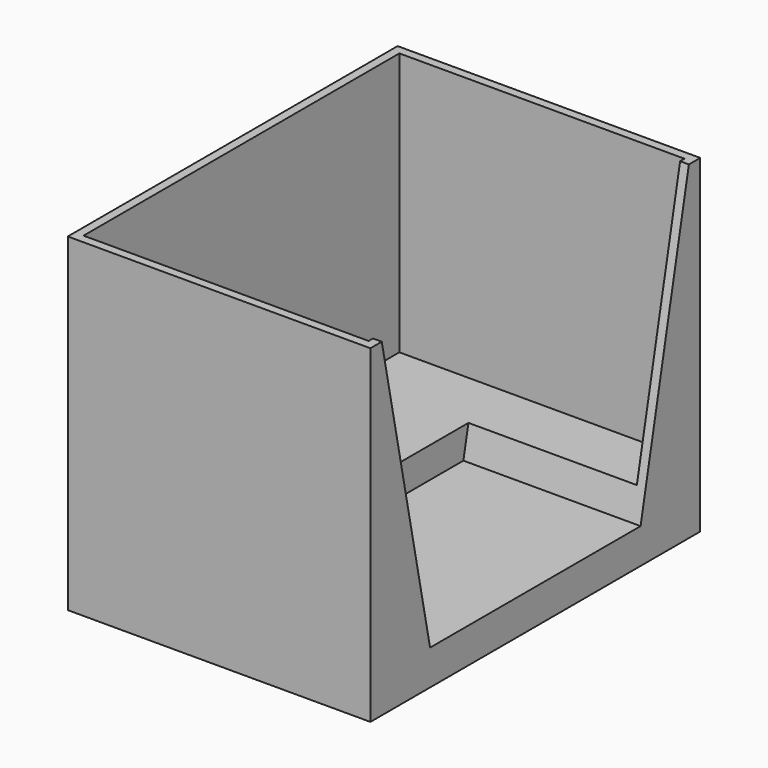
from build123d import *

# Parameters (mm, degrees)
F0_W     = 69
F0_H     = 94
F0_W_2   = 65
F0_H_2   = 90
F1_DEPTH = 60
F2_W     = 69
F2_H     = 94
F3_DEPTH = 15
F5_DEPTH = 40.4


with BuildPart() as f1:
    # F0 (on Top) → F1 (new body)
    with BuildSketch(Plane.XY):
        Rectangle(F0_W, F0_H)
        Rectangle(F0_W_2, F0_H_2, mode=Mode.SUBTRACT)
    extrude(amount=F1_DEPTH)

    # F2 (on face) → F3 (join)
    with BuildSketch(Plane(origin=(0, 0, 0), x_dir=(1, 0, 0), z_dir=(0, 0, -1))):
        Rectangle(F2_W, F2_H)
    extrude(amount=F3_DEPTH)

    # F4 (on face) → F5 (cut)
    with BuildSketch(Plane.YZ.offset(34.5)):
        Polygon((-30, -7), (0, -7), (30, -7), (45, 66), (0, 66), (-45, 66), align=None)
    extrude(amount=-F5_DEPTH, mode=Mode.SUBTRACT)


solid = f1.part
